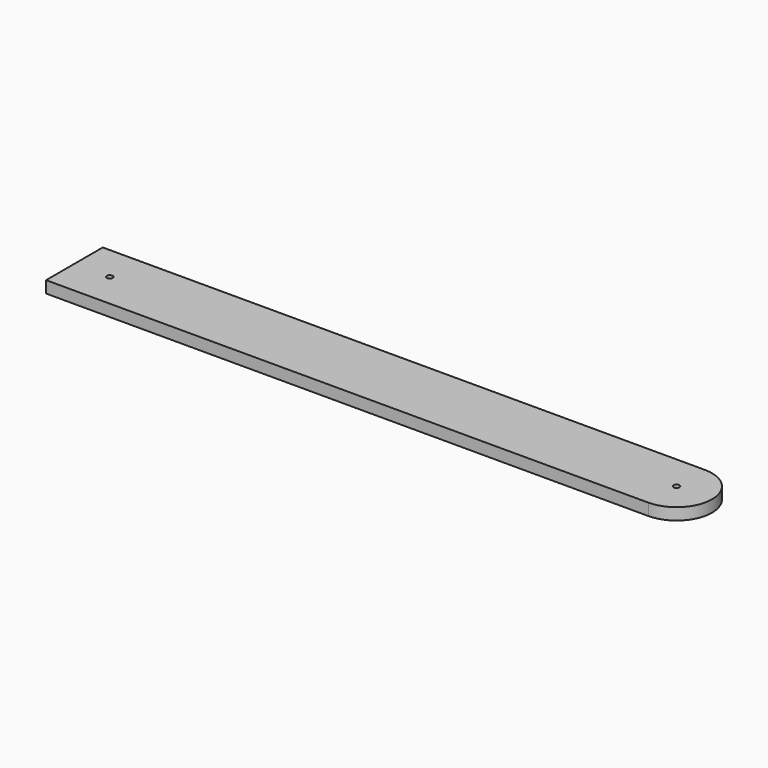
from build123d import *

# Parameters (mm, degrees)
F0_R     = 3.175
F1_DEPTH = 12.7


with BuildPart() as f1:
    # F0 (on Top) → F1 (new body)
    with BuildSketch(Plane.XY):
        with BuildLine():
            Line((-342.9, 38.1), (-342.9, -38.1))
            Line((-342.9, -38.1), (304.8, -38.1))
            ThreePointArc((304.8, -38.1), (342.9, 0), (304.8, 38.1))
            Line((304.8, 38.1), (-342.9, 38.1))
        make_face()
        with Locations((-304.8, 0)):
            Circle(F0_R, mode=Mode.SUBTRACT)
        with Locations((304.8, 0)):
            Circle(F0_R, mode=Mode.SUBTRACT)
    extrude(amount=F1_DEPTH)


solid = f1.part
